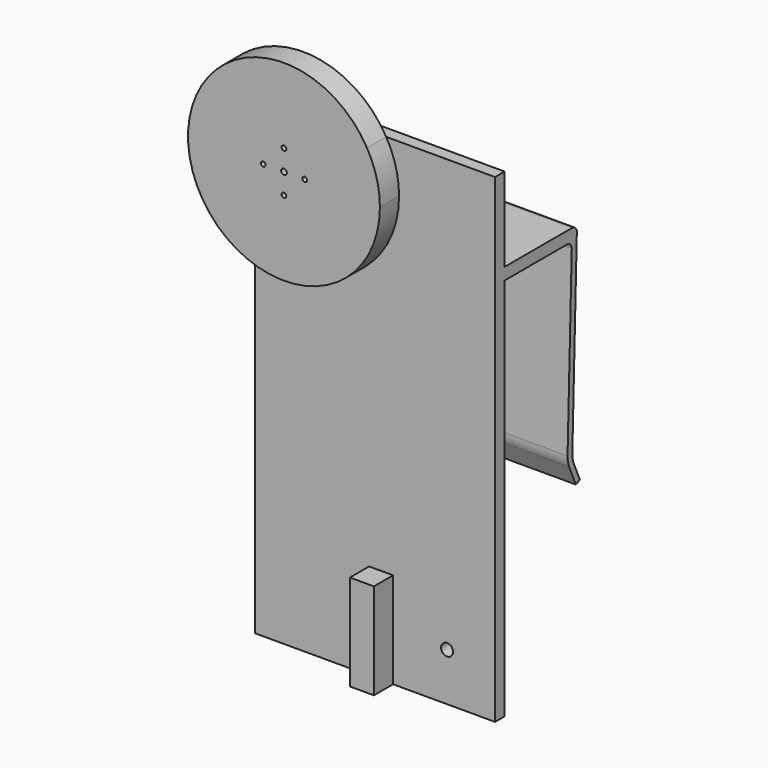
from build123d import *

# Parameters (mm, degrees)
F0_W     = 127
F0_H     = 254
F0_R     = 3.175
F0_R_2   = 13.9954
F1_DEPTH = 6.35
F3_DEPTH = 63.5
F4_R     = 13.9954
F4_R_2   = 1.2446
F4_R_3   = 8.4963
F4_R_4   = 5.0038
F4_R_5   = 1.4986
F4_W     = 12.7
F4_H     = 50.8
F5_DEPTH = 12.7
F6_DEPTH = 2.0066
F7_DEPTH = 2.9972


with BuildPart() as f1:
    # F0 (on Front) → F1 (new body)
    with BuildSketch(Plane.XZ):
        Rectangle(F0_W, F0_H)
        with Locations((-38.1, -101.6)):
            Circle(F0_R, mode=Mode.SUBTRACT)
        with Locations((38.1, -101.6)):
            Circle(F0_R, mode=Mode.SUBTRACT)
        with Locations((-38.1, 101.6)):
            Circle(F0_R_2, mode=Mode.SUBTRACT)
        with Locations((38.1, 101.6)):
            Circle(F0_R, mode=Mode.SUBTRACT)
        with Locations((38.1, 101.6)):
            Circle(F0_R)
        with Locations((-38.1, -101.6)):
            Circle(F0_R)
    extrude(amount=F1_DEPTH)

    # F2 (on Right) → F3 (join, symmetric)
    with BuildSketch(Plane.YZ):
        with BuildLine():
            Line((44.638204, 82.55), (0, 82.55))
            Line((0, 82.55), (0, 76.2))
            Line((0, 76.2), (41.276354, 76.2))
            ThreePointArc((41.276354, 76.2), (43.553959, 75.237044), (44.45, 72.932292))
            Line((44.45, 72.932292), (41.660755, -22.550628))
            ThreePointArc((41.660755, -22.550628), (41.887722, -25.339829), (42.720032, -28.011611))
            Line((42.720032, -28.011611), (47.133445, -38.1))
            Line((47.133445, -38.1), (49.799549, -36.933647))
            Line((49.799549, -36.933647), (45.896387, -28.011611))
            ThreePointArc((45.896387, -28.011611), (45.064076, -25.339829), (44.837109, -22.550628))
            Line((44.837109, -22.550628), (47.81185, 79.282292))
            ThreePointArc((47.81185, 79.282292), (46.91581, 81.587044), (44.638204, 82.55))
        make_face()
    extrude(amount=F3_DEPTH, both=True)

    # F4 (on face) → F5 (join)
    with BuildSketch(Plane.XZ.offset(6.35)):
        with BuildLine():
            Line((-63.5, 57.605909), (-63.5, 73.201937))
            Line((-63.5, 73.201937), (-63.5, 127))
            Line((-63.5, 127), (5.894091, 127))
            ThreePointArc((5.894091, 127), (-74.021024, 137.521024), (-63.5, 57.605909))
        make_face()
        with BuildLine():
            Line((-63.5, 127), (-63.5, 73.201937))
            Line((-63.5, 73.201937), (-63.5, 57.605909))
            ThreePointArc((-63.5, 57.605909), (-12.7, 57.605909), (12.7, 101.6))
            ThreePointArc((12.7, 101.6), (10.969032, 114.748007), (5.894091, 127))
            Line((5.894091, 127), (-63.5, 127))
        make_face()
        with Locations((-38.1, 101.6)):
            Circle(F4_R, mode=Mode.SUBTRACT)
        with Locations((-38.1, 101.6)):
            Circle(F4_R)
        with Locations((-38.1, 90.6018)):
            Circle(F4_R_2, mode=Mode.SUBTRACT)
        with Locations((-49.0982, 101.6)):
            Circle(F4_R_2, mode=Mode.SUBTRACT)
        with Locations((-38.1, 101.6)):
            Circle(F4_R_3, mode=Mode.SUBTRACT)
        with Locations((-38.1, 112.5982)):
            Circle(F4_R_2, mode=Mode.SUBTRACT)
        with Locations((-27.1018, 101.6)):
            Circle(F4_R_2, mode=Mode.SUBTRACT)
        with Locations((-38.1, 101.6)):
            Circle(F4_R_3)
        with Locations((-38.1, 101.6)):
            Circle(F4_R_4, mode=Mode.SUBTRACT)
        with Locations((-38.1, 101.6)):
            Circle(F4_R_4)
        with Locations((-38.1, 101.6)):
            Circle(F4_R_5, mode=Mode.SUBTRACT)
        with Locations((3.175, -101.6)):
            Rectangle(F4_W, F4_H)
    extrude(amount=F5_DEPTH)

    # F4 (on face) → F6 (cut)
    with BuildSketch(Plane.XZ.offset(6.35)):
        with Locations((-38.1, 101.6)):
            Circle(F4_R_3)
        with Locations((-38.1, 101.6)):
            Circle(F4_R_4, mode=Mode.SUBTRACT)
        with Locations((-38.1, 101.6)):
            Circle(F4_R_4)
        with Locations((-38.1, 101.6)):
            Circle(F4_R_5, mode=Mode.SUBTRACT)
    extrude(amount=F6_DEPTH, mode=Mode.SUBTRACT)

    # F4 (on face) → F7 (cut)
    with BuildSketch(Plane.XZ.offset(6.35)):
        with Locations((-38.1, 101.6)):
            Circle(F4_R_4)
        with Locations((-38.1, 101.6)):
            Circle(F4_R_5, mode=Mode.SUBTRACT)
    extrude(amount=F7_DEPTH, mode=Mode.SUBTRACT)


solid = f1.part
